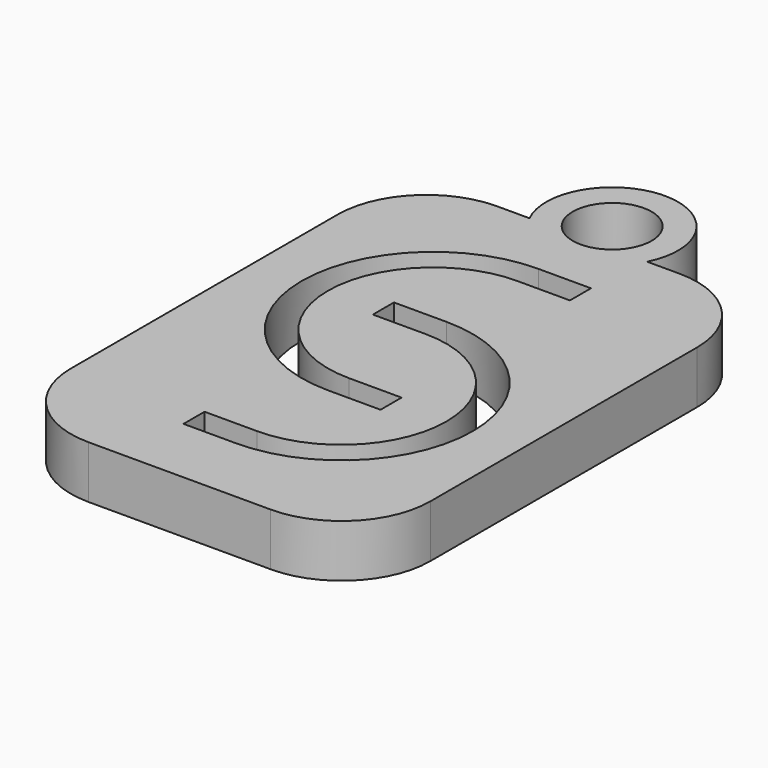
from build123d import *

# Parameters (mm, degrees)
F0_R     = 1.5
F1_DEPTH = 2
F2_R     = 3.372656


with BuildPart() as f1:
    # F0 (on Top) → F1 (new body)
    with BuildSketch(Plane.XY):
        with BuildLine():
            Line((-6.834927, 15.166115), (-6.834927, -4.257682))
            Line((-6.834927, -4.257682), (6.834927, -4.257682))
            Line((6.834927, -4.257682), (6.834927, 15.166115))
            Line((6.834927, 15.166115), (2.236068, 15.166115))
            ThreePointArc((2.236068, 15.166115), (0, 18.803332), (-2.236068, 15.166115))
            Line((-2.236068, 15.166115), (-6.834927, 15.166115))
        make_face()
        with BuildLine():
            ThreePointArc((0, 8.425944), (5, 3.425944), (0, -1.574056))
            Line((0, -1.574056), (-2, -1.574056))
            Line((-2, -1.574056), (-2, -0.574056))
            Line((-2, -0.574056), (0, -0.574056))
            ThreePointArc((0, -0.574056), (4, 3.425944), (0, 7.425944))
            Line((0, 7.425944), (-2, 7.425944))
            Line((-2, 7.425944), (-2, 8.425944))
            Line((-2, 8.425944), (0, 8.425944))
        make_face(mode=Mode.SUBTRACT)
        with BuildLine():
            ThreePointArc((0, 2.789911), (-5, 7.789911), (0, 12.789911))
            Line((0, 12.789911), (2, 12.789911))
            Line((2, 12.789911), (2, 11.789911))
            Line((2, 11.789911), (0, 11.789911))
            ThreePointArc((0, 11.789911), (-4, 7.789911), (0, 3.789911))
            Line((0, 3.789911), (2, 3.789911))
            Line((2, 3.789911), (2, 2.789911))
            Line((2, 2.789911), (0, 2.789911))
        make_face(mode=Mode.SUBTRACT)
        with Locations((0, 16.297385)):
            Circle(F0_R, mode=Mode.SUBTRACT)
    extrude(amount=F1_DEPTH)

    # F2
    f2_edges = [f1.edges().sort_by_distance(p)[0] for p in [
        (6.834927, -4.257682, 1),
        (-6.834927, 15.166115, 1),
        (6.834927, 15.166115, 1),
        (-6.834927, -4.257682, 1),
    ]]
    fillet(f2_edges, radius=F2_R)


solid = f1.part
